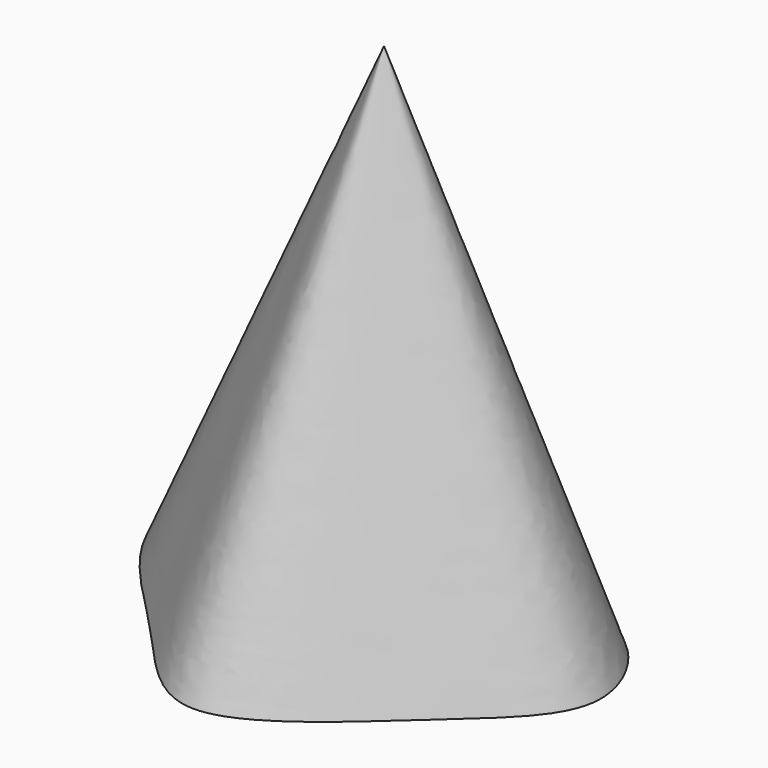
from build123d import *


with BuildPart() as f3:
    # F0 (on Top) → F3 section 0
    with BuildSketch(Plane.XY, mode=Mode.PRIVATE) as f3_s0:
        with BuildLine():
            add(Edge.make_bspline(
                [(-18.3606576174, 25.9631145746), (-24.8669511006, 32.3870858201), (-51.8655643518, 40.0726586124), (-57.6750301686, 10.8487888738), (-33.235908176, -9.8631102652), (-14.1452998574, -35.6482011189), (15.4566078571, -7.0097629803), (35.9466084804, 9.7936423871), (19.0696630673, 35.2078950696), (2.8755517408, 25.2078545692), (-12.6934679528, 11.2237328307), (-14.2023708767, 21.8574414255), (-18.3606576174, 25.9631145746)],
                knots=[0, 0, 0, 0, 0.115290787, 0.2081707367, 0.3276908445, 0.4332251151, 0.5569371657, 0.6609035907, 0.7570963366, 0.8430106977, 0.9263156277, 1, 1, 1, 1], degree=3))
        make_face()
    loft([Vertex(0, 0, 100), f3_s0.sketch])


solid = f3.part
